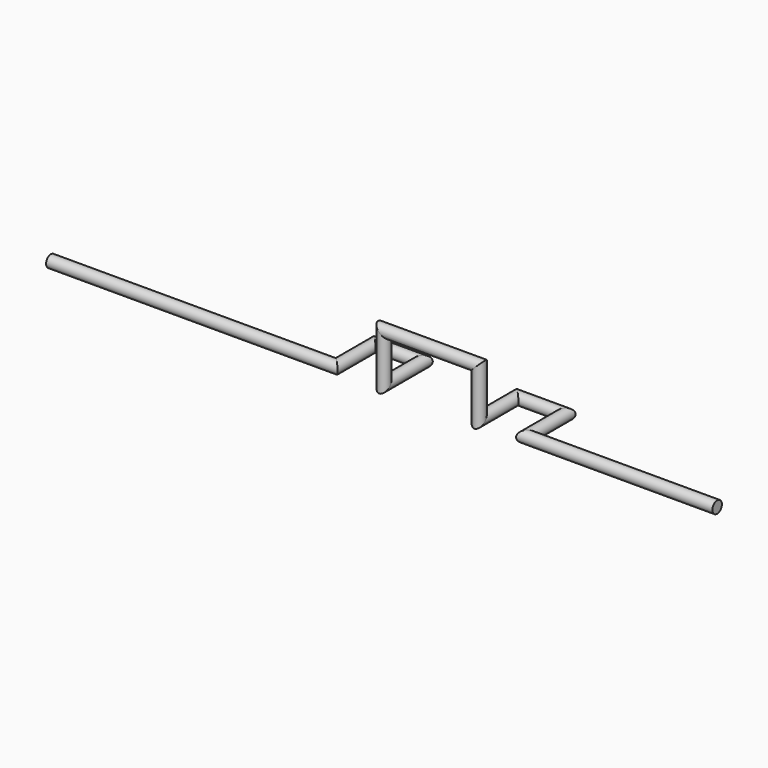
from build123d import *

# Parameters (mm, degrees)
F2_R = 1.5875


with BuildPart() as f3:
    # F3: sweep along a path in F0, F1, F0
    with BuildLine(Plane.XY) as f3_path:
        Line((80.258414459, 0), (29.458414459, 0))
        Line((29.458414459, 0), (29.458414459, 12.7))
        Line((29.458414459, 12.7), (16.758414459, 12.7))
        Line((16.758414459, 12.7), (16.758414459, 0))
    with BuildLine(Plane.XZ) as f3_path_2:
        Line((16.758414459, 0), (16.758414459, 12.7))
        Line((16.758414459, 12.7), (-8.641585541, 12.7))
        Line((-8.641585541, 12.7), (-8.641585541, 0))
    with BuildLine(Plane.XY) as f3_path_3:
        Line((-8.641585541, 0), (-8.641585541, 12.7))
        Line((-8.641585541, 12.7), (-21.341585541, 12.7))
        Line((-21.341585541, 12.7), (-21.341585541, 0))
        Line((-21.341585541, 0), (-97.541585541, 0))
    # F2 (on Right) → F3 (sweep)
    with BuildSketch(Plane.YZ):
        with Locations((0, 12.7)):
            Circle(F2_R)
    sweep(path=f3_path.line + f3_path_2.line + f3_path_3.line, transition=Transition.RIGHT)


solid = f3.part
